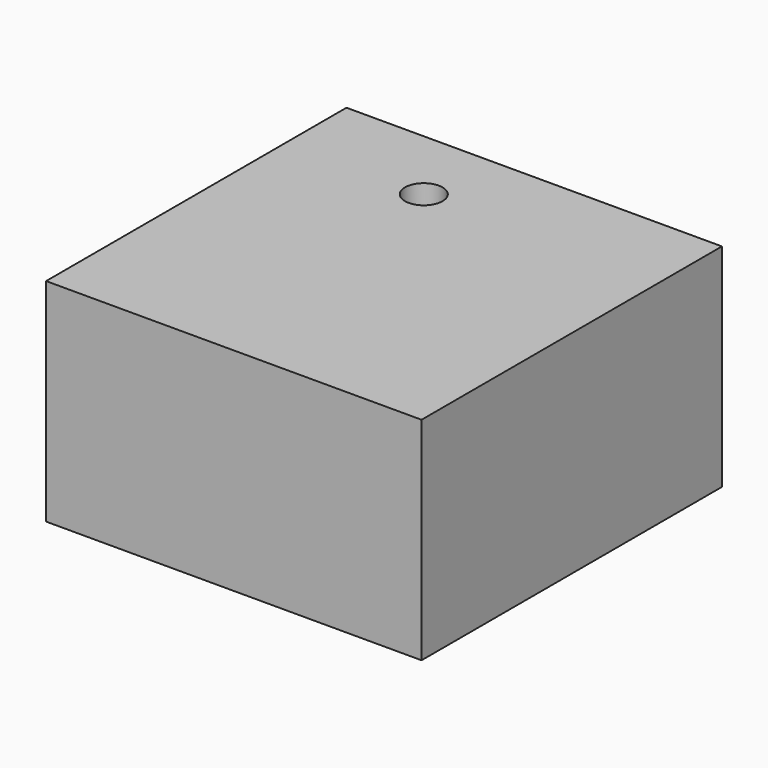
from build123d import *

# Parameters (mm, degrees)
F0_W           = 127
F0_H           = 71.627994
F1_DEPTH       = 127
F3_D           = 6.35
F3_CBORE_D     = 12.7
F3_CBORE_DEPTH = 14.224


with BuildPart() as f1:
    # F0 (on Front) → F1 (new body)
    with BuildSketch(Plane.XZ):
        with Locations((3.659764, 2.776372)):
            Rectangle(F0_W, F0_H)
    extrude(amount=F1_DEPTH)

    # F3 (through all)
    with Locations(Plane.XY.offset(38.590369)):
        with Locations((-12.956402, -25.904797)):
            CounterBoreHole(F3_D / 2, F3_CBORE_D / 2, F3_CBORE_DEPTH)


solid = f1.part
